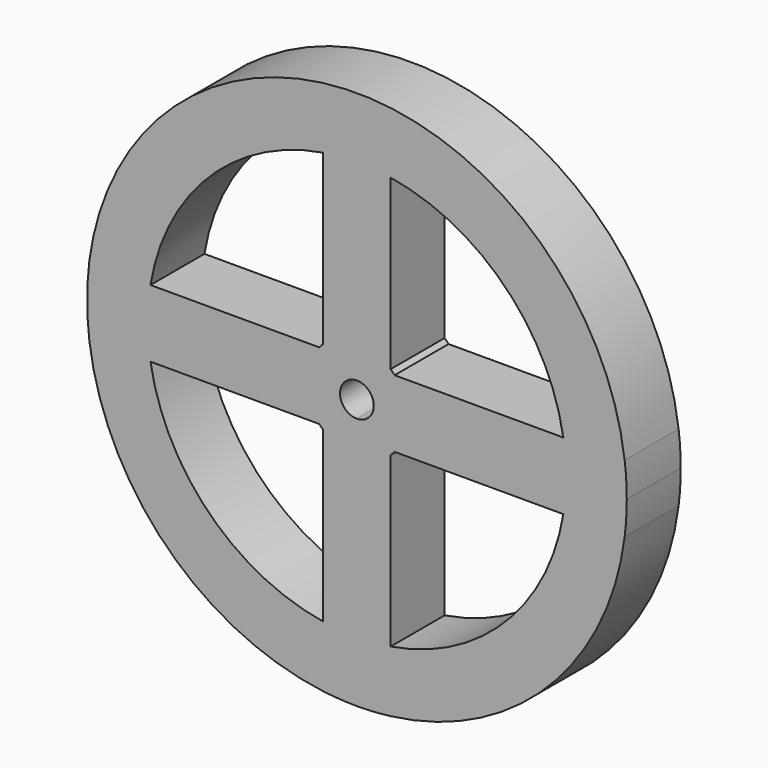
from build123d import *

# Parameters (mm, degrees)
F1_DEPTH = 10


with BuildPart() as f1:
    # F0 (on Front) → F1 (new body)
    with BuildSketch(Plane.XZ):
        with BuildLine():
            Line((30.5941170816, 5), (39.686269666, 5))
            ThreePointArc((39.686269666, 5), (-4.9999999441, 39.686269673), (-39.68626968, -4.9999998882))
            Line((-39.68626968, -4.9999998882), (-30.5941170998, -4.9999998882))
            Line((-30.5941170998, -4.9999998882), (-5.5901700437, -4.9999998882))
            ThreePointArc((-5.5901700437, -4.9999998882), (-5.3033009119, -5.3033008059), (-5, -5.5901699437))
            Line((-5, -5.5901699437), (-5, -30.5941170816))
            ThreePointArc((-5, -30.5941170816), (-2.5082235219, -30.8983626551), (0, -31))
            Line((0, -31), (0, -2.5))
            ThreePointArc((0, -2.5), (-2.5, 0), (0, 2.5))
            ThreePointArc((0, 2.5), (1.767766953, 1.767766953), (2.5, 0))
            Line((2.5, 0), (31, 0))
            ThreePointArc((31, 0), (30.8983626551, 2.5082235219), (30.5941170816, 5))
        make_face()
        with BuildLine():
            Line((-5.5901699437, 5), (-30.5941170816, 5))
            ThreePointArc((-30.5941170816, 5), (-21.9203102168, 21.9203102168), (-5, 30.5941170816))
            Line((-5, 30.5941170816), (-5, 5.5901699437))
            ThreePointArc((-5, 5.5901699437), (-5.3033008589, 5.3033008589), (-5.5901699437, 5))
        make_face(mode=Mode.SUBTRACT)
        with BuildLine():
            ThreePointArc((5, 30.5941170816), (21.9203102168, 21.9203102168), (30.5941170816, 5))
            Line((30.5941170816, 5), (5.5901699437, 5))
            ThreePointArc((5.5901699437, 5), (5.3033008589, 5.3033008589), (5, 5.5901699437))
            Line((5, 5.5901699437), (5, 30.5941170816))
        make_face(mode=Mode.SUBTRACT)
        with BuildLine():
            Line((31, 0), (40, 0))
            ThreePointArc((40, 0), (39.9214903695, 2.5049165017), (39.686269666, 5))
            Line((39.686269666, 5), (30.5941170816, 5))
            ThreePointArc((30.5941170816, 5), (30.8983626551, 2.5082235219), (31, 0))
        make_face()
        with BuildLine():
            ThreePointArc((39.686269666, -5), (39.9214903695, -2.5049165017), (40, 0))
            Line((40, 0), (31, 0))
            ThreePointArc((31, 0), (30.8983626551, -2.5082235219), (30.5941170816, -5))
            Line((30.5941170816, -5), (39.686269666, -5))
        make_face()
        with BuildLine():
            ThreePointArc((5, -39.686269666), (28.2842712475, -28.2842712475), (39.686269666, -5))
            Line((39.686269666, -5), (30.5941170816, -5))
            ThreePointArc((30.5941170816, -5), (21.9203102168, -21.9203102168), (5, -30.5941170816))
            Line((5, -30.5941170816), (5, -39.686269666))
        make_face()
        with BuildLine():
            Line((-30.5941170998, -4.9999998882), (-39.68626968, -4.9999998882))
            ThreePointArc((-39.68626968, -4.9999998882), (-28.2842712873, -28.2842712076), (-5, -39.686269666))
            Line((-5, -39.686269666), (-5, -30.5941170816))
            ThreePointArc((-5, -30.5941170816), (-21.9203102568, -21.9203101767), (-30.5941170998, -4.9999998882))
        make_face()
        with BuildLine():
            Line((-5, -30.5941170816), (-5, -39.686269666))
            ThreePointArc((-5, -39.686269666), (-2.5049165017, -39.9214903695), (0, -40))
            Line((0, -40), (0, -31))
            ThreePointArc((0, -31), (-2.5082235219, -30.8983626551), (-5, -30.5941170816))
        make_face()
        with BuildLine():
            ThreePointArc((0, -40), (2.5049165017, -39.9214903695), (5, -39.686269666))
            Line((5, -39.686269666), (5, -30.5941170816))
            ThreePointArc((5, -30.5941170816), (2.5082235219, -30.8983626551), (0, -31))
            Line((0, -31), (0, -40))
        make_face()
        with BuildLine():
            ThreePointArc((30.5941170816, -5), (30.8983626551, -2.5082235219), (31, 0))
            Line((31, 0), (2.5, 0))
            ThreePointArc((2.5, 0), (1.767766953, -1.767766953), (0, -2.5))
            Line((0, -2.5), (0, -31))
            ThreePointArc((0, -31), (2.5082235219, -30.8983626551), (5, -30.5941170816))
            Line((5, -30.5941170816), (5, -5.5901699437))
            ThreePointArc((5, -5.5901699437), (5.3033008589, -5.3033008589), (5.5901699437, -5))
            Line((5.5901699437, -5), (30.5941170816, -5))
        make_face()
    extrude(amount=F1_DEPTH)


solid = f1.part
